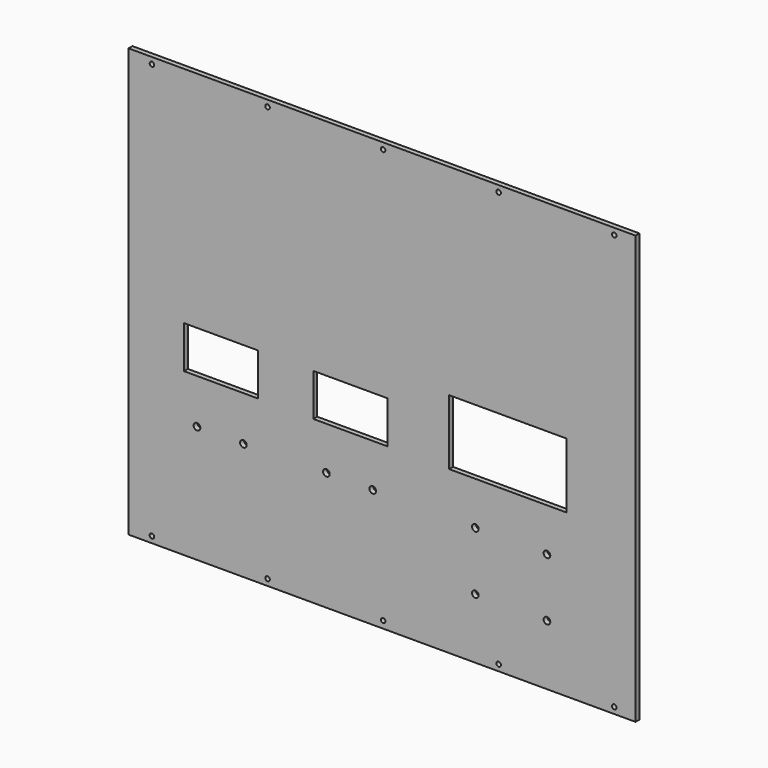
from build123d import *

# Parameters (mm, degrees)
F0_W     = 311.5
F0_H     = 263
F0_R     = 1.4
F0_R_2   = 2.05
F0_W_2   = 45.5
F0_H_2   = 26
F0_W_3   = 72
F0_H_3   = 40
F1_DEPTH = 3


with BuildPart() as f1:
    # F0 (on Front) → F1 (new body)
    with BuildSketch(Plane.XZ):
        with Locations((-52.302524, 18.134766)):
            Rectangle(F0_W, F0_H)
        with Locations((-193.652524, -109.465234)):
            Circle(F0_R, mode=Mode.SUBTRACT)
        with Locations((-122.652524, -109.465234)):
            Circle(F0_R, mode=Mode.SUBTRACT)
        with Locations((-166.002524, -41.315234)):
            Circle(F0_R_2, mode=Mode.SUBTRACT)
        with Locations((-137.502524, -41.315234)):
            Circle(F0_R_2, mode=Mode.SUBTRACT)
        with Locations((-151.302524, -0.887154)):
            Rectangle(F0_W_2, F0_H_2, mode=Mode.SUBTRACT)
        with Locations((-86.502524, -40.415234)):
            Circle(F0_R_2, mode=Mode.SUBTRACT)
        with Locations((-58.002524, -40.415234)):
            Circle(F0_R_2, mode=Mode.SUBTRACT)
        with Locations((-71.802524, -0.887154)):
            Rectangle(F0_W_2, F0_H_2, mode=Mode.SUBTRACT)
        with Locations((-51.652524, -108.965234)):
            Circle(F0_R, mode=Mode.SUBTRACT)
        with Locations((19.347476, -109.465234)):
            Circle(F0_R, mode=Mode.SUBTRACT)
        with Locations((4.997476, -76.315234)):
            Circle(F0_R_2, mode=Mode.SUBTRACT)
        with Locations((90.347476, -109.465234)):
            Circle(F0_R, mode=Mode.SUBTRACT)
        with Locations((48.997476, -76.315234)):
            Circle(F0_R_2, mode=Mode.SUBTRACT)
        with Locations((4.997476, -40.415234)):
            Circle(F0_R_2, mode=Mode.SUBTRACT)
        with Locations((24.947476, 6.112846)):
            Rectangle(F0_W_3, F0_H_3, mode=Mode.SUBTRACT)
        with Locations((48.997476, -40.415234)):
            Circle(F0_R_2, mode=Mode.SUBTRACT)
        with Locations((-193.652524, 145.734766)):
            Circle(F0_R, mode=Mode.SUBTRACT)
        with Locations((-122.652524, 145.734766)):
            Circle(F0_R, mode=Mode.SUBTRACT)
        with Locations((-51.652524, 145.734766)):
            Circle(F0_R, mode=Mode.SUBTRACT)
        with Locations((19.347476, 145.734766)):
            Circle(F0_R, mode=Mode.SUBTRACT)
        with Locations((90.347476, 145.734766)):
            Circle(F0_R, mode=Mode.SUBTRACT)
    extrude(amount=F1_DEPTH)


solid = f1.part
